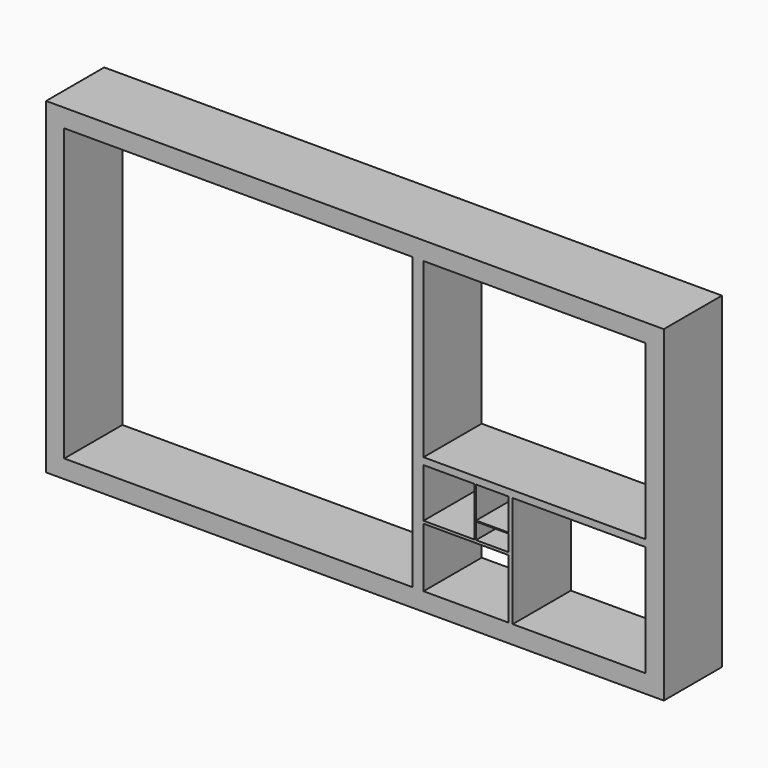
from build123d import *

# Parameters (mm, degrees)
F0_W     = 107.95
F0_H     = 57.15
F0_W_2   = 5.6642
F0_H_2   = 0.17526
F1_DEPTH = 12.7


with BuildPart() as f1:
    # F0 (on Front) → F1 (new body)
    with BuildSketch(Plane.XZ):
        Rectangle(F0_W, F0_H)
        Polygon((50.8, -5.9944), (50.8, -25.4), (27.5717, -25.4), (26.8224, -25.4), (11.9888, -25.4), (10.02665, -25.4), (-50.8, -25.4), (-50.8, 25.4), (10.02665, 25.4), (11.9888, 25.4), (50.8, 25.4), (50.8, -4.78282), align=None, mode=Mode.SUBTRACT)
        Polygon((10.02665, -25.4), (11.9888, -25.4), (11.9888, -15.017242), (11.9888, -14.5542), (11.9888, -5.9944), (11.9888, -4.78282), (11.9888, 25.4), (10.02665, 25.4), align=None)
        Polygon((27.5717, -5.9944), (50.8, -5.9944), (50.8, -4.78282), (11.9888, -4.78282), (11.9888, -5.9944), (20.872196, -5.9944), (21.1582, -5.9944), (26.8224, -5.9944), align=None)
        Polygon((26.8224, -25.4), (27.5717, -25.4), (27.5717, -5.9944), (26.8224, -5.9944), (26.8224, -11.53414), (26.8224, -11.7094), (26.8224, -14.5542), (26.8224, -15.017242), align=None)
        Polygon((11.9888, -15.017242), (26.8224, -15.017242), (26.8224, -14.5542), (21.1582, -14.5542), (20.872196, -14.5542), (19.4056, -14.5542), (11.9888, -14.5542), align=None)
        Polygon((21.1582, -11.53414), (21.1582, -5.9944), (20.872196, -5.9944), (20.872196, -14.5542), (21.1582, -14.5542), (21.1582, -11.7094), align=None)
        with Locations((23.9903, -11.62177)):
            Rectangle(F0_W_2, F0_H_2)
    extrude(amount=F1_DEPTH)


solid = f1.part
